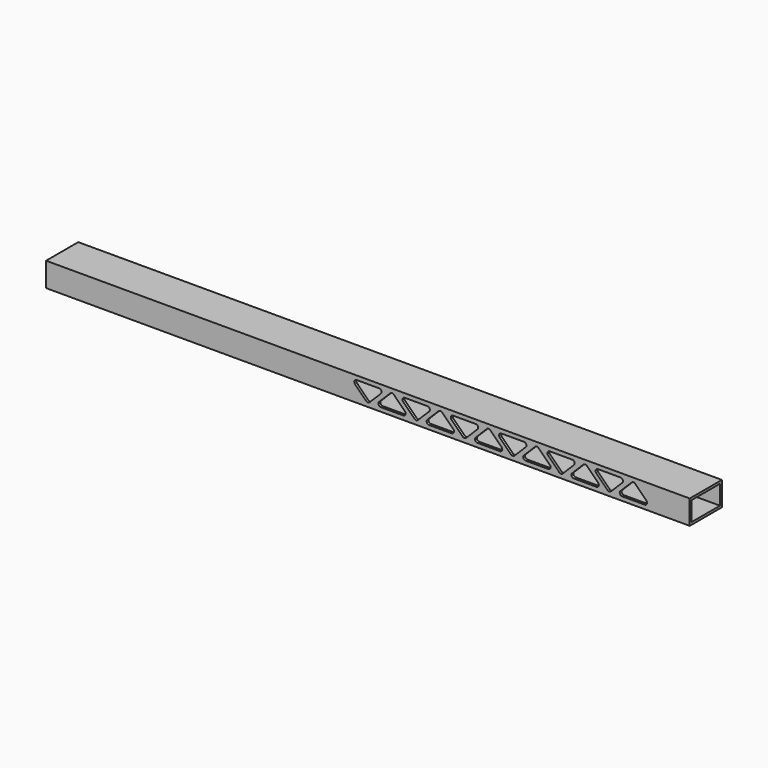
from build123d import *

# Parameters (mm, degrees)
SKETCH_W            = 25
SKETCH_H            = 15
SKETCH_W_2          = 22
SKETCH_H_2          = 12
PAD_DEPTH           = 200
POCKET_DEPTH        = 25.001
LINEARPATTERN_COUNT = 6
LINEARPATTERN_PITCH = 30


with BuildPart() as part:
    # Sketch → Pad (new body, symmetric)
    with BuildSketch(Plane.YZ):
        Rectangle(SKETCH_W, SKETCH_H)
        Rectangle(SKETCH_W_2, SKETCH_H_2, mode=Mode.SUBTRACT)
    extrude(amount=PAD_DEPTH, both=True)

    # Sketch001 (on Face4 of Pad) → Pocket (cut, through all)
    with BuildSketch(Plane(origin=(0, -12.5, 0), x_dir=(0, 0, -1), z_dir=(0, -1, 0))):
        with BuildLine():
            Line((-5, 7), (-5, -7))
            ThreePointArc((-5, -7), (-4.074025, -8.385819), (-2.43934, -8.06066))
            Line((4.56066, -1.06066), (-2.43934, -8.06066))
            ThreePointArc((4.56066, -1.06066), (5, 0), (4.56066, 1.06066))
            Line((4.56066, 1.06066), (-2.43934, 8.06066))
            ThreePointArc((-2.43934, 8.06066), (-4.074025, 8.385819), (-5, 7))
        make_face()
        with BuildLine():
            Line((-4.56066, 13.93934), (2.43934, 6.93934))
            ThreePointArc((2.43934, 6.93934), (4.074025, 6.614181), (5, 8))
            Line((5, 22), (5, 8))
            ThreePointArc((5, 22), (4.074025, 23.385819), (2.43934, 23.06066))
            Line((2.43934, 23.06066), (-4.56066, 16.06066))
            ThreePointArc((-4.56066, 16.06066), (-5, 15), (-4.56066, 13.93934))
        make_face()
    pocket = extrude(amount=-POCKET_DEPTH, mode=Mode.SUBTRACT)

    # LinearPattern: Pocket ×6
    with Locations(*[(i * LINEARPATTERN_PITCH, 0, 0) for i in range(1, LINEARPATTERN_COUNT)]):
        add(pocket, mode=Mode.SUBTRACT)


solid = part.part
